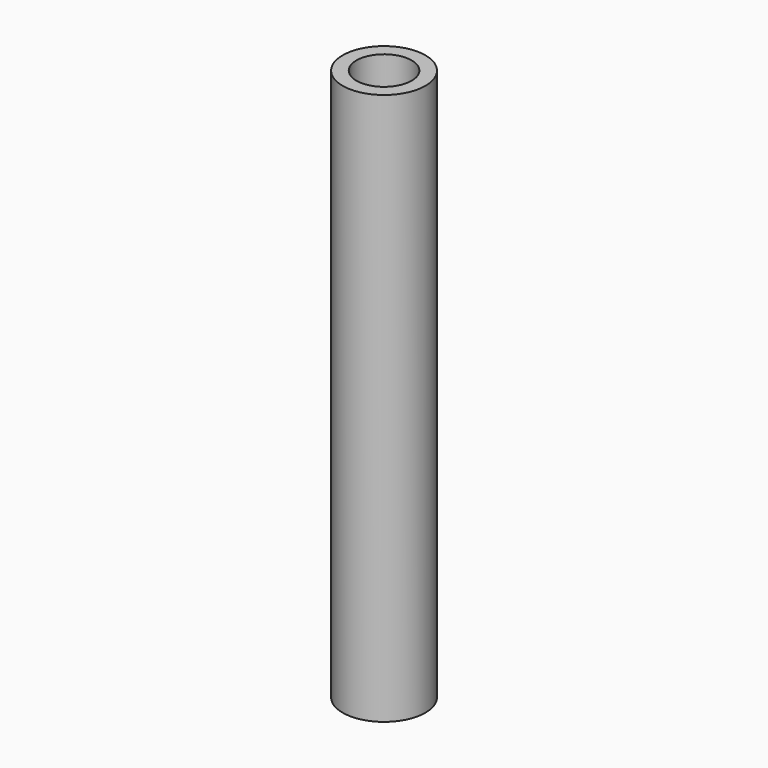
from build123d import *

# Parameters (mm, degrees)
F0_R     = 152.4
F1_DEPTH = 2032
F2_R     = 101.6
F3_DEPTH = 508
F4_R     = 101.6
F5_DEPTH = 508


with BuildPart() as f1:
    # F0 (on Top) → F1 (new body)
    with BuildSketch(Plane.XY):
        Circle(F0_R)
    extrude(amount=F1_DEPTH)

    # F2 (on face) → F3 (cut)
    with BuildSketch(Plane.XY.offset(2032)):
        Circle(F2_R)
    extrude(amount=-F3_DEPTH, mode=Mode.SUBTRACT)

    # F4 (on face) → F5 (cut)
    with BuildSketch(Plane(origin=(0, 0, 0), x_dir=(1, 0, 0), z_dir=(0, 0, -1))):
        Circle(F4_R)
    extrude(amount=-F5_DEPTH, mode=Mode.SUBTRACT)


solid = f1.part
